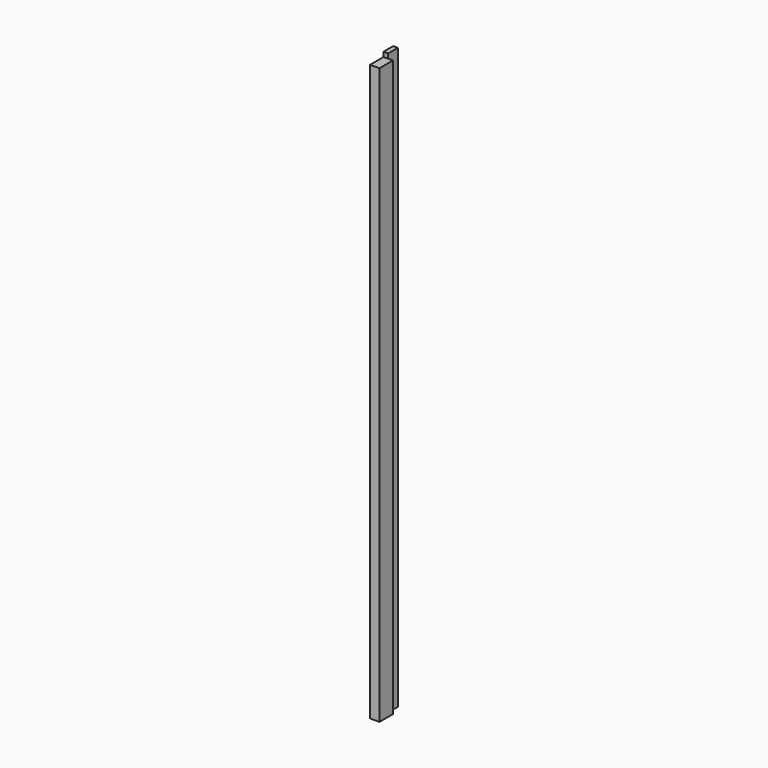
from build123d import *

# Parameters (mm, degrees)
F1_DEPTH      = 2355.85
F2_W          = 68.2625
F2_H          = 19.05
F3_DEPTH      = 21.1863303725
F3_DEPTH_BACK = 16.9156696275


with BuildPart() as f1:
    # F0 (on Top) → F1 (new body)
    with BuildSketch(Plane.XY):
        Polygon((-2.1353303725, -12.5172607846), (-2.1353303725, 36.6952392154), (-21.1853303725, 36.6952392154), (-21.1853303725, -80.7797607846), (16.9146696275, -80.7797607846), (16.9146696275, -12.5172607846), align=None)
    extrude(amount=F1_DEPTH)

    # F2 (on Right) → F3 (cut, two sides)
    with BuildSketch(Plane.YZ) as f3_sk:
        with Locations((-46.6485107846, 2346.325)):
            Rectangle(F2_W, F2_H)
    extrude(amount=-F3_DEPTH, mode=Mode.SUBTRACT)
    extrude(f3_sk.sketch, amount=F3_DEPTH_BACK, mode=Mode.SUBTRACT)


solid = f1.part
